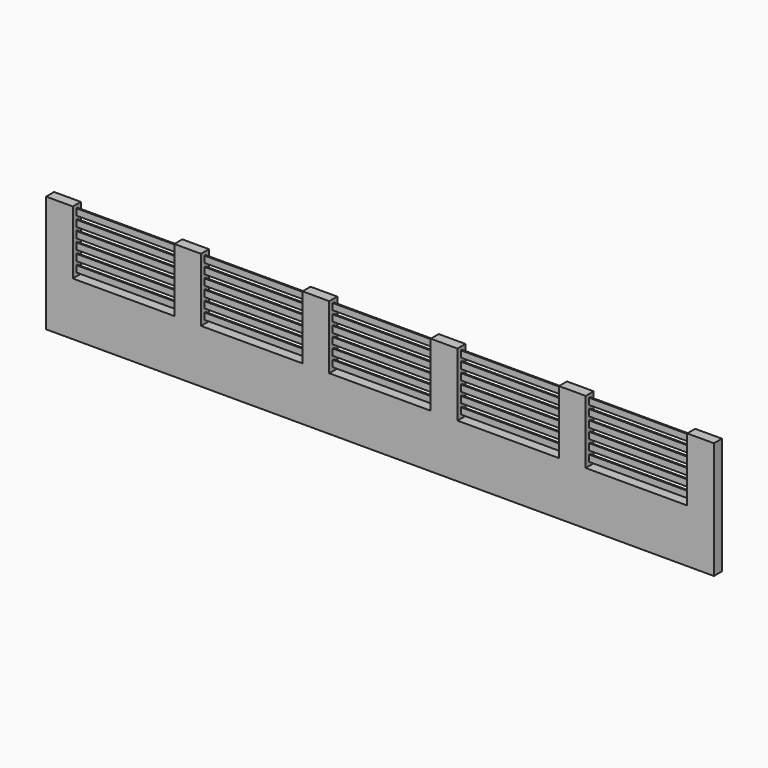
from build123d import *

# Parameters (mm, degrees)
F2_W     = 10000
F2_H     = 150
F3_DEPTH = 800
F4_W     = 400
F4_H     = 150
F5_DEPTH = 1750
F6_W     = 20
F6_H     = 96
F7_DEPTH = 10000


with BuildPart() as f3:
    # F2 (on Top) → F3 (new body, through all)
    with BuildSketch(Plane.XY):
        with Locations((5000, 75)):
            Rectangle(F2_W, F2_H)
    extrude(amount=F3_DEPTH)

    # F4 (on Top) → F5 (join, through all)
    with BuildSketch(Plane.XY):
        with Locations((200, 75)):
            Rectangle(F4_W, F4_H)
        with Locations((2120, 75)):
            Rectangle(F4_W, F4_H)
        with Locations((4040, 75)):
            Rectangle(F4_W, F4_H)
        with Locations((5960, 75)):
            Rectangle(F4_W, F4_H)
        with Locations((7880, 75)):
            Rectangle(F4_W, F4_H)
        with Locations((9800, 75)):
            Rectangle(F4_W, F4_H)
    extrude(amount=F5_DEPTH)

    # F6 (on Right) → F7 (join, through all)
    with BuildSketch(Plane.YZ):
        with Locations((75, 1652)):
            Rectangle(F6_W, F6_H)
        with Locations((75, 1502)):
            Rectangle(F6_W, F6_H)
        with Locations((75, 1352)):
            Rectangle(F6_W, F6_H)
        with Locations((75, 1202)):
            Rectangle(F6_W, F6_H)
        with Locations((75, 1052)):
            Rectangle(F6_W, F6_H)
        with Locations((75, 902)):
            Rectangle(F6_W, F6_H)
    extrude(amount=F7_DEPTH)


solid = f3.part
